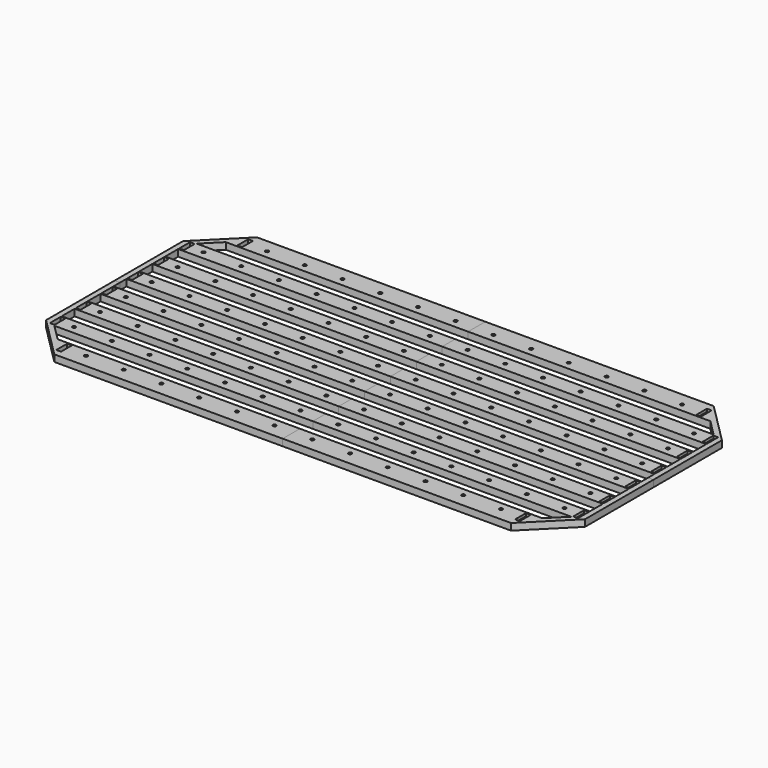
from build123d import *

# Parameters (mm, degrees)
F0_W     = 196
F0_H     = 12
F1_DEPTH = 5
F2_W     = 168.5
F2_H     = 10
F2_R     = 1.25
F2_W_2   = 3.5
F2_W_3   = 192.5
F3_DEPTH = 3
F4_DEPTH = 5.001


with BuildPart() as f1:
    # F0 (on Top) → F1 (new body)
    with BuildSketch(Plane.XY):
        Polygon((0, 78), (0, 90), (-167.843146, 90), (-179.843146, 78), align=None)
        Polygon((0, 54), (0, 66), (-191.843146, 66), (-196, 61.843146), (-196, 54), align=None)
        with Locations((-98, 36)):
            Rectangle(F0_W, F0_H)
        with Locations((-98, 12)):
            Rectangle(F0_W, F0_H)
        Polygon((0, 94), (-169.5, 94), (-200, 63.5), (-200, 0), (-196, 0), (-196, 6), (-196, 18), (-196, 30), (-196, 42), (-196, 54), (-196, 61.843146), (-191.843146, 66), (-179.843146, 78), (-167.843146, 90), (0, 90), align=None)
    extrude(amount=F1_DEPTH)

    # F2 (on face) → F3 (cut)
    with BuildSketch(Plane(origin=(0, 0, 0), x_dir=(1, 0, 0), z_dir=(0, 0, -1))):
        with Locations((-84.25, -84)):
            Rectangle(F2_W, F2_H)
        with Locations((-154, -84)):
            Circle(F2_R, mode=Mode.SUBTRACT)
        with Locations((-126, -84)):
            Circle(F2_R, mode=Mode.SUBTRACT)
        with Locations((-98, -84)):
            Circle(F2_R, mode=Mode.SUBTRACT)
        with Locations((-70, -84)):
            Circle(F2_R, mode=Mode.SUBTRACT)
        with Locations((-42, -84)):
            Circle(F2_R, mode=Mode.SUBTRACT)
        with Locations((-14, -84)):
            Circle(F2_R, mode=Mode.SUBTRACT)
        with Locations((-170.25, -84)):
            Rectangle(F2_W_2, F2_H)
        with Locations((-96.25, -60)):
            Rectangle(F2_W_3, F2_H)
        with Locations((-182, -60)):
            Circle(F2_R, mode=Mode.SUBTRACT)
        with Locations((-154, -60)):
            Circle(F2_R, mode=Mode.SUBTRACT)
        with Locations((-126, -60)):
            Circle(F2_R, mode=Mode.SUBTRACT)
        with Locations((-98, -60)):
            Circle(F2_R, mode=Mode.SUBTRACT)
        with Locations((-70, -60)):
            Circle(F2_R, mode=Mode.SUBTRACT)
        with Locations((-42, -60)):
            Circle(F2_R, mode=Mode.SUBTRACT)
        with Locations((-14, -60)):
            Circle(F2_R, mode=Mode.SUBTRACT)
        with Locations((-194.25, -60)):
            Rectangle(F2_W_2, F2_H)
        with Locations((-96.25, -36)):
            Rectangle(F2_W_3, F2_H)
        with Locations((-182, -36)):
            Circle(F2_R, mode=Mode.SUBTRACT)
        with Locations((-154, -36)):
            Circle(F2_R, mode=Mode.SUBTRACT)
        with Locations((-126, -36)):
            Circle(F2_R, mode=Mode.SUBTRACT)
        with Locations((-98, -36)):
            Circle(F2_R, mode=Mode.SUBTRACT)
        with Locations((-70, -36)):
            Circle(F2_R, mode=Mode.SUBTRACT)
        with Locations((-42, -36)):
            Circle(F2_R, mode=Mode.SUBTRACT)
        with Locations((-14, -36)):
            Circle(F2_R, mode=Mode.SUBTRACT)
        with Locations((-194.25, -36)):
            Rectangle(F2_W_2, F2_H)
        with Locations((-96.25, -12)):
            Rectangle(F2_W_3, F2_H)
        with Locations((-182, -12)):
            Circle(F2_R, mode=Mode.SUBTRACT)
        with Locations((-154, -12)):
            Circle(F2_R, mode=Mode.SUBTRACT)
        with Locations((-126, -12)):
            Circle(F2_R, mode=Mode.SUBTRACT)
        with Locations((-98, -12)):
            Circle(F2_R, mode=Mode.SUBTRACT)
        with Locations((-70, -12)):
            Circle(F2_R, mode=Mode.SUBTRACT)
        with Locations((-42, -12)):
            Circle(F2_R, mode=Mode.SUBTRACT)
        with Locations((-14, -12)):
            Circle(F2_R, mode=Mode.SUBTRACT)
        with Locations((-194.25, -12)):
            Rectangle(F2_W_2, F2_H)
    extrude(amount=-F3_DEPTH, mode=Mode.SUBTRACT)

    # F2 (on face) → F4 (cut, through all)
    with BuildSketch(Plane(origin=(0, 0, 0), x_dir=(1, 0, 0), z_dir=(0, 0, -1))):
        with Locations((-194.25, -60)):
            Rectangle(F2_W_2, F2_H)
        with Locations((-194.25, -36)):
            Rectangle(F2_W_2, F2_H)
        with Locations((-170.25, -84)):
            Rectangle(F2_W_2, F2_H)
        with Locations((-182, -60)):
            Circle(F2_R)
        with Locations((-154, -60)):
            Circle(F2_R)
        with Locations((-126, -60)):
            Circle(F2_R)
        with Locations((-98, -60)):
            Circle(F2_R)
        with Locations((-98, -36)):
            Circle(F2_R)
        with Locations((-126, -36)):
            Circle(F2_R)
        with Locations((-154, -36)):
            Circle(F2_R)
        with Locations((-154, -12)):
            Circle(F2_R)
        with Locations((-126, -12)):
            Circle(F2_R)
        with Locations((-98, -12)):
            Circle(F2_R)
        with Locations((-70, -12)):
            Circle(F2_R)
        with Locations((-42, -12)):
            Circle(F2_R)
        with Locations((-42, -36)):
            Circle(F2_R)
        with Locations((-70, -36)):
            Circle(F2_R)
        with Locations((-70, -60)):
            Circle(F2_R)
        with Locations((-42, -60)):
            Circle(F2_R)
        with Locations((-182, -36)):
            Circle(F2_R)
        with Locations((-182, -12)):
            Circle(F2_R)
        with Locations((-154, -84)):
            Circle(F2_R)
        with Locations((-126, -84)):
            Circle(F2_R)
        with Locations((-98, -84)):
            Circle(F2_R)
        with Locations((-70, -84)):
            Circle(F2_R)
        with Locations((-42, -84)):
            Circle(F2_R)
        with Locations((-14, -84)):
            Circle(F2_R)
        with Locations((-14, -60)):
            Circle(F2_R)
        with Locations((-14, -36)):
            Circle(F2_R)
        with Locations((-14, -12)):
            Circle(F2_R)
        with Locations((-194.25, -12)):
            Rectangle(F2_W_2, F2_H)
    extrude(amount=-F4_DEPTH, mode=Mode.SUBTRACT)


with BuildPart() as f5_1:
    # F5: instance of F1
    add(f1.part.mirror(Plane(origin=(-198, 0, 2.5), x_dir=(1, 0, 0), z_dir=(0, -1, 0))))


with BuildPart() as f6_1:
    # F6: instance of F1
    add(f1.part.mirror(Plane(origin=(0, 36, 3.5), x_dir=(0, 1, 0), z_dir=(1, 0, 0))))


with BuildPart() as f6_2:
    # F6: instance of F5_1
    add(f5_1.part.mirror(Plane(origin=(0, 36, 3.5), x_dir=(0, 1, 0), z_dir=(1, 0, 0))))


solid = Compound([f1.part, f5_1.part, f6_1.part, f6_2.part])
